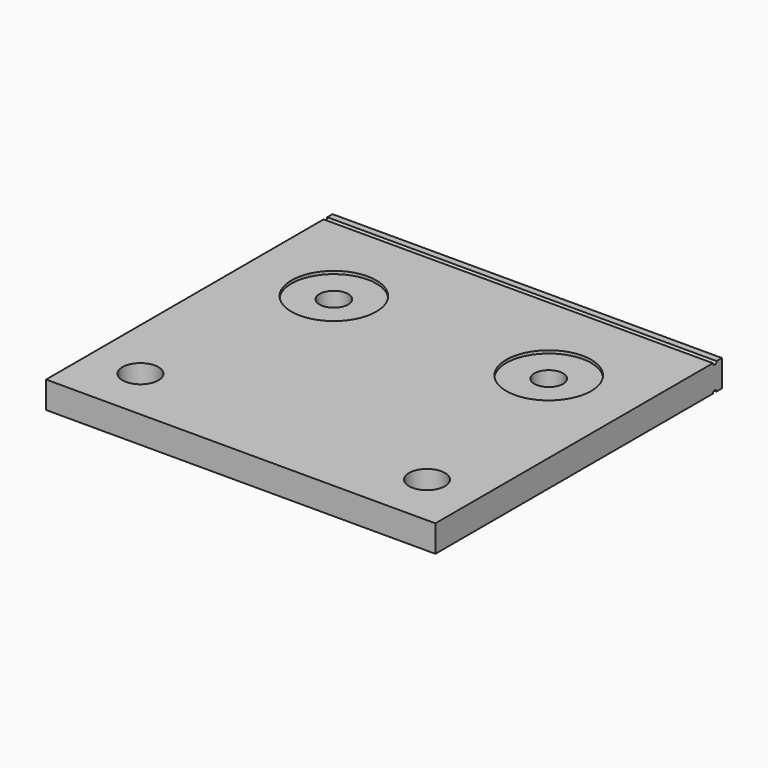
from build123d import *

# Parameters (mm, degrees)
F0_W     = 69.0372
F0_H     = 63.5
F1_DEPTH = 4.7625
F2_R     = 3.1877
F3_DEPTH = 4.7635
F4_R     = 2.54
F5_DEPTH = 4.7635
F4_R_2   = 7.527211353
F4_R_3   = 7.5272138977
F6_DEPTH = 0.508
F8_DEPTH = 69.0382


with BuildPart() as f1:
    # F0 (on Top) → F1 (new body)
    with BuildSketch(Plane.XY):
        with Locations((0, -31.75)):
            Rectangle(F0_W, F0_H)
    extrude(amount=F1_DEPTH)

    # F2 (on face) → F3 (cut, through all)
    with BuildSketch(Plane.XY.offset(4.7625)):
        with Locations((25.4, -53.975)):
            Circle(F2_R)
        with Locations((-25.4, -53.975)):
            Circle(F2_R)
    extrude(amount=-F3_DEPTH, mode=Mode.SUBTRACT)

    # F4 (on face) → F5 (cut, through all)
    with BuildSketch(Plane.XY.offset(4.7625)):
        with Locations((-19.05, -19.05)):
            Circle(F4_R)
        with Locations((19.05, -19.05)):
            Circle(F4_R)
    extrude(amount=-F5_DEPTH, mode=Mode.SUBTRACT)

    # F4 (on face) → F6 (cut)
    with BuildSketch(Plane.XY.offset(4.7625)):
        with Locations((-19.05, -19.05)):
            Circle(F4_R_2)
        with Locations((-19.05, -19.05)):
            Circle(F4_R, mode=Mode.SUBTRACT)
        with Locations((19.05, -19.05)):
            Circle(F4_R_3)
        with Locations((19.05, -19.05)):
            Circle(F4_R, mode=Mode.SUBTRACT)
    extrude(amount=-F6_DEPTH, mode=Mode.SUBTRACT)

    # F7 (on face) → F8 (cut, through all)
    with BuildSketch(Plane.YZ.offset(34.5186)):
        with BuildLine():
            ThreePointArc((-1.9939, 4.7625), (-1.5875, 4.3561), (-1.1811, 4.7625))
            Line((-1.1811, 4.7625), (-1.9939, 4.7625))
        make_face()
        with BuildLine():
            Line((-1.9939, 0), (-1.1811, 0))
            ThreePointArc((-1.1811, 0), (-1.5875, 0.4064), (-1.9939, 0))
        make_face()
    extrude(amount=-F8_DEPTH, mode=Mode.SUBTRACT)


solid = f1.part
